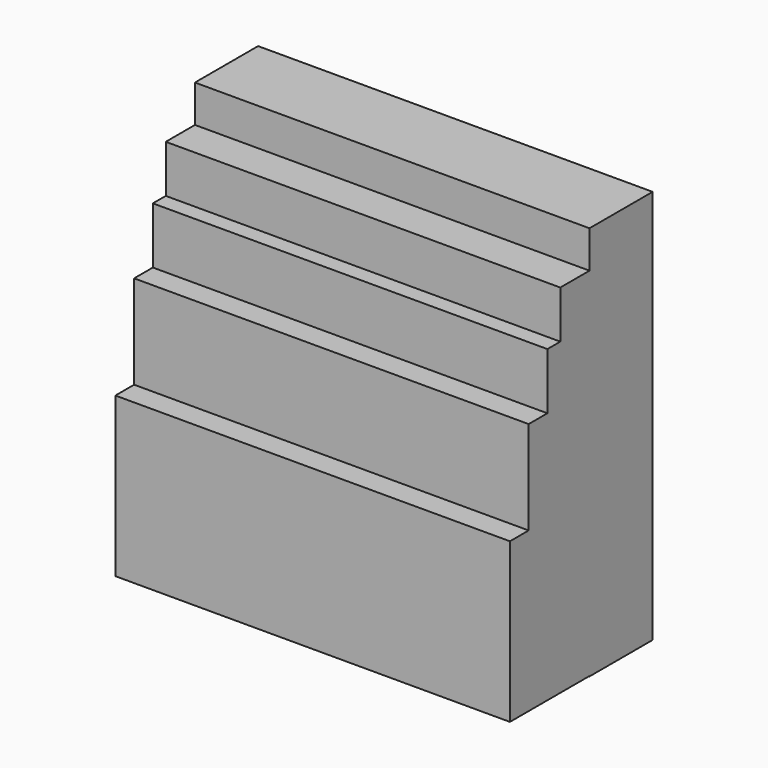
from build123d import *

# Parameters (mm, degrees)
F0_W     = 50
F0_H     = 50
F1_DEPTH = 5
F3_DEPTH = 25


with BuildPart() as f1:
    # F0 (on Front) → F1 (new body, symmetric)
    with BuildSketch(Plane.XZ):
        Rectangle(F0_W, F0_H)
    extrude(amount=F1_DEPTH, both=True)

    # F2 (on Right) → F3 (join, symmetric)
    with BuildSketch(Plane.YZ):
        Polygon((-4.812052, -24.951309), (-4.812052, 20.26826), (-9.624103, 20.26826), (-9.624103, 14.232163), (-11.670237, 14.232163), (-11.670237, 7.070693), (-14.637132, 7.070693), (-14.637132, -4.796886), (-17.604027, -4.796886), (-17.604027, -24.951309), align=None)
    extrude(amount=F3_DEPTH, both=True)


solid = f1.part
